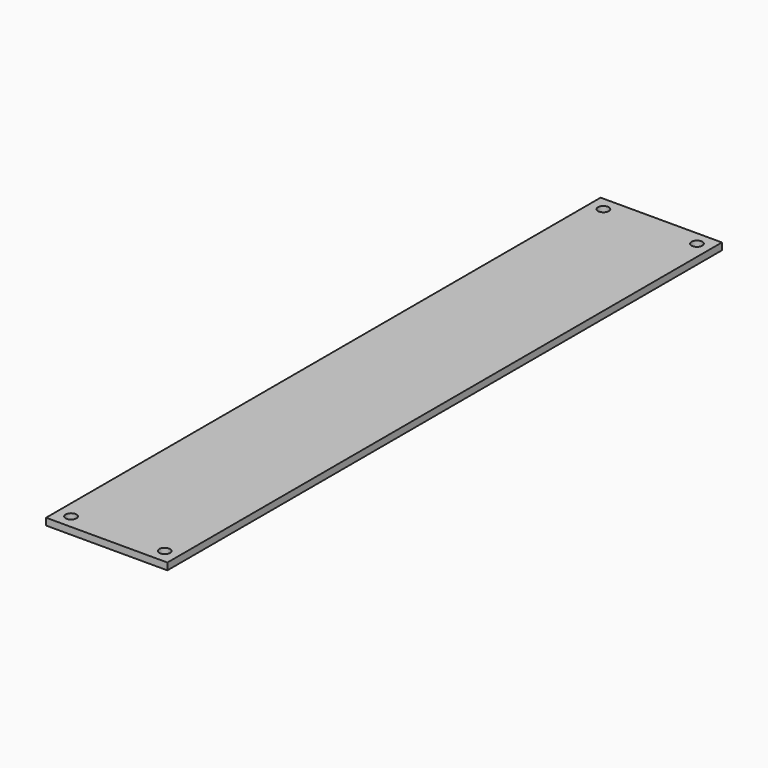
from build123d import *

# Parameters (mm, degrees)
SKETCH_W  = 35
SKETCH_H  = 200
SKETCH_R  = 1.55
PAD_DEPTH = 2


with BuildPart() as part:
    # Sketch → Pad (new body)
    with BuildSketch(Plane.XY):
        Rectangle(SKETCH_W, SKETCH_H)
        with Locations((-13.5, -96)):
            Circle(SKETCH_R, mode=Mode.SUBTRACT)
        with Locations((13.5, -96)):
            Circle(SKETCH_R, mode=Mode.SUBTRACT)
        with Locations((-13.5, 96)):
            Circle(SKETCH_R, mode=Mode.SUBTRACT)
        with Locations((13.5, 96)):
            Circle(SKETCH_R, mode=Mode.SUBTRACT)
    extrude(amount=PAD_DEPTH)


solid = part.part
